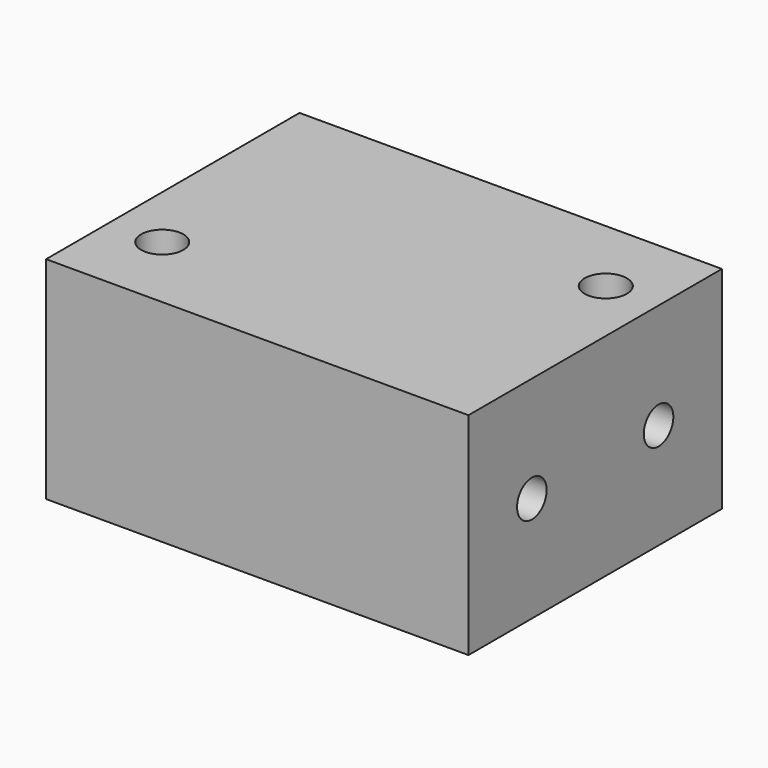
from build123d import *

# Parameters (mm, degrees)
F0_W     = 40
F0_H     = 30
F1_DEPTH = 20
F2_R     = 1.75
F3_DEPTH = 40.001
F4_R     = 2
F5_DEPTH = 4
F6_R     = 0.5
F7_DEPTH = 16.001


with BuildPart() as f1:
    # F0 (on Top) → F1 (new body)
    with BuildSketch(Plane.XY):
        Rectangle(F0_W, F0_H)
    extrude(amount=F1_DEPTH)

    # F2 (on face) → F3 (cut, through all)
    with BuildSketch(Plane(origin=(-20, 0, 0), x_dir=(0, -1, 0), z_dir=(-1, 0, 0))):
        with Locations((-7.5, 10)):
            Circle(F2_R)
        with Locations((7.5, 10)):
            Circle(F2_R)
    extrude(amount=-F3_DEPTH, mode=Mode.SUBTRACT)

    # F4 (on face) → F5 (cut)
    with BuildSketch(Plane.XY.offset(20)):
        with Locations((15, 7.5)):
            Circle(F4_R)
        with Locations((-15, -7.5)):
            Circle(F4_R)
    extrude(amount=-F5_DEPTH, mode=Mode.SUBTRACT)

    # F6 (on face) → F7 (cut, through all)
    with BuildSketch(Plane.XY.offset(16)):
        with Locations((15, 7.5)):
            Circle(F6_R)
        with Locations((-15, -7.5)):
            Circle(F6_R)
    extrude(amount=-F7_DEPTH, mode=Mode.SUBTRACT)


solid = f1.part
